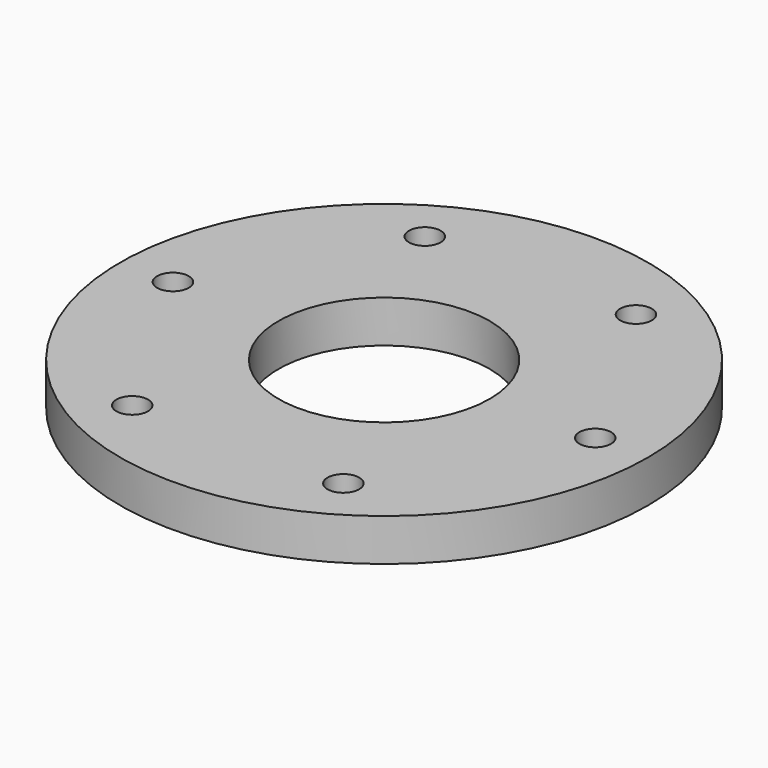
from build123d import *

# Parameters (mm, degrees)
CYLINDER_R      = 25
CYLINDER_DEPTH  = 4
SKETCH_R        = 1.5
POCKET_DEPTH    = 4.001
SKETCH001_R     = 10
POCKET001_DEPTH = 5


with BuildPart() as part:
    # Cylinder → Cylinder (new body)
    with BuildSketch(Plane.XY.offset(2)):
        Circle(CYLINDER_R)
    extrude(amount=CYLINDER_DEPTH)

    # Sketch → Pocket (cut, through all)
    with BuildSketch(Plane.XY.offset(6)):
        with Locations((20, 0)):
            Circle(SKETCH_R)
        with Locations((-10, 17.320508)):
            Circle(SKETCH_R)
        with Locations((-10, -17.320508)):
            Circle(SKETCH_R)
        with Locations((-20, 0)):
            Circle(SKETCH_R)
        with Locations((10, -17.320508)):
            Circle(SKETCH_R)
        with Locations((10, 17.320508)):
            Circle(SKETCH_R)
    extrude(amount=-POCKET_DEPTH, mode=Mode.SUBTRACT)

    # Sketch001 → Pocket001 (cut)
    with BuildSketch(Plane.XY.offset(6)):
        Circle(SKETCH001_R)
    extrude(amount=-POCKET001_DEPTH, mode=Mode.SUBTRACT)


solid = part.part
